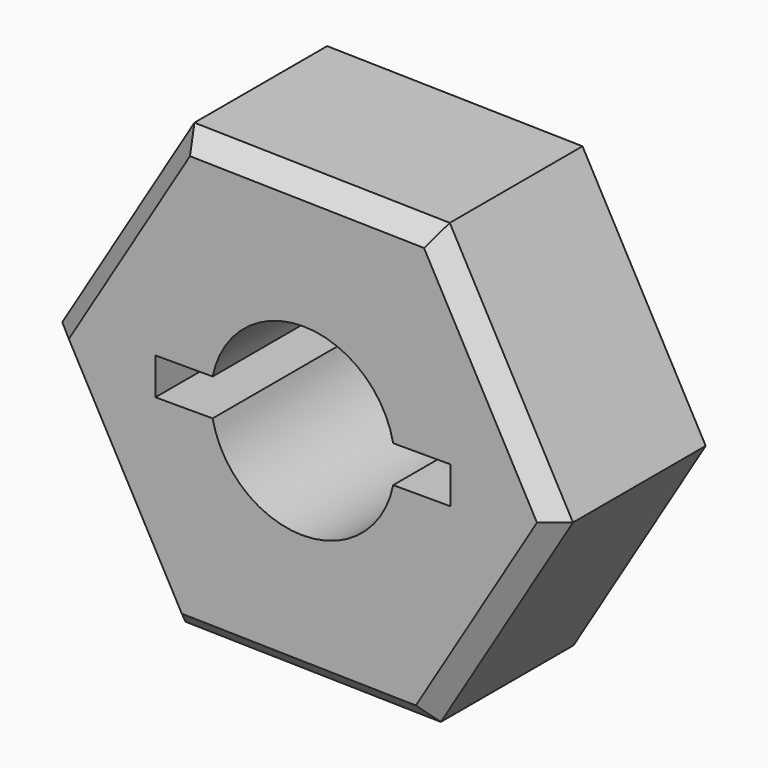
from build123d import *

# Parameters (mm, degrees)
F0_DEPTH = 5
F1_R     = 2.5
F2_DEPTH = 36.487296
F6_SIZE  = 0.5
F3_W     = 8
F3_H     = 1
F4_DEPTH = 5.527664


with BuildPart() as f0:
    # F5 (on Front) → F0 (new body)
    with BuildSketch(Plane.XZ):
        Polygon((6.926796, -0.139655), (3.584342, 5.928954), (-3.342453, 6.068608), (-6.926796, 0.139655), (-3.584342, -5.928954), (3.342453, -6.068608), align=None)
    extrude(amount=F0_DEPTH)

    # F1 (on face) → F2 (cut)
    with BuildSketch(Plane.XZ):
        Circle(F1_R)
    extrude(amount=F2_DEPTH, mode=Mode.SUBTRACT)

    # F6
    f6_edges = [f0.edges().sort_by_distance(p)[0] for p in [
        (-5.255569, -5, -2.89465),
        (-5.134624, -5, 3.104131),
        (0.120944, -5, 5.998781),
        (5.255569, -5, 2.89465),
        (-0.120944, -5, -5.998781),
        (5.134624, -5, -3.104131),
    ]]
    chamfer(f6_edges, length=F6_SIZE)

    # F3 (on face) → F4 (cut)
    with BuildSketch(Plane.XZ):
        Rectangle(F3_W, F3_H)
    extrude(amount=F4_DEPTH, mode=Mode.SUBTRACT)


solid = f0.part
